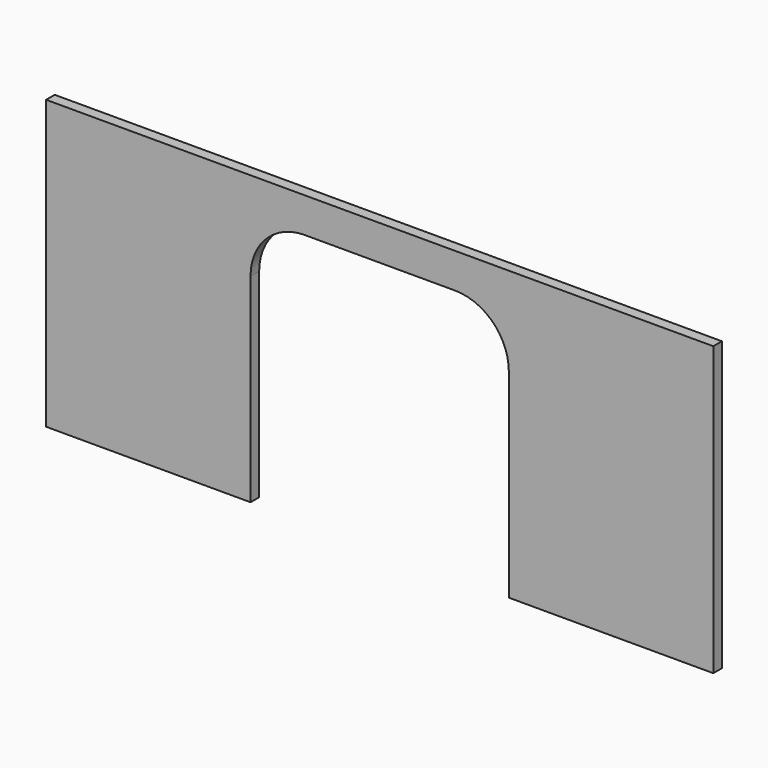
from build123d import *

# Parameters (mm, degrees)
F0_W     = 12.7
F0_H     = 339.725
F1_DEPTH = 12.7


with BuildPart() as f1:
    # F0 (on Front) → F1 (new body)
    with BuildSketch(Plane.XZ):
        with BuildLine():
            Line((-241.3, 0), (-12.7, 0))
            Line((-12.7, 0), (-12.7, 339.725))
            Line((-12.7, 339.725), (-774.7, 339.725))
            Line((-774.7, 339.725), (-774.7, 0))
            Line((-774.7, 0), (-546.1, 0))
            Line((-546.1, 0), (-546.1, 234.95))
            ThreePointArc((-546.1, 234.95), (-527.501281, 279.851281), (-482.6, 298.45))
            Line((-482.6, 298.45), (-393.7, 298.45))
            Line((-393.7, 298.45), (-304.8, 298.45))
            ThreePointArc((-304.8, 298.45), (-259.898719, 279.851281), (-241.3, 234.95))
            Line((-241.3, 234.95), (-241.3, 0))
        make_face()
        with Locations((-6.35, 169.8625)):
            Rectangle(F0_W, F0_H)
        with Locations((-781.05, 169.8625)):
            Rectangle(F0_W, F0_H)
    extrude(amount=F1_DEPTH)


solid = f1.part
